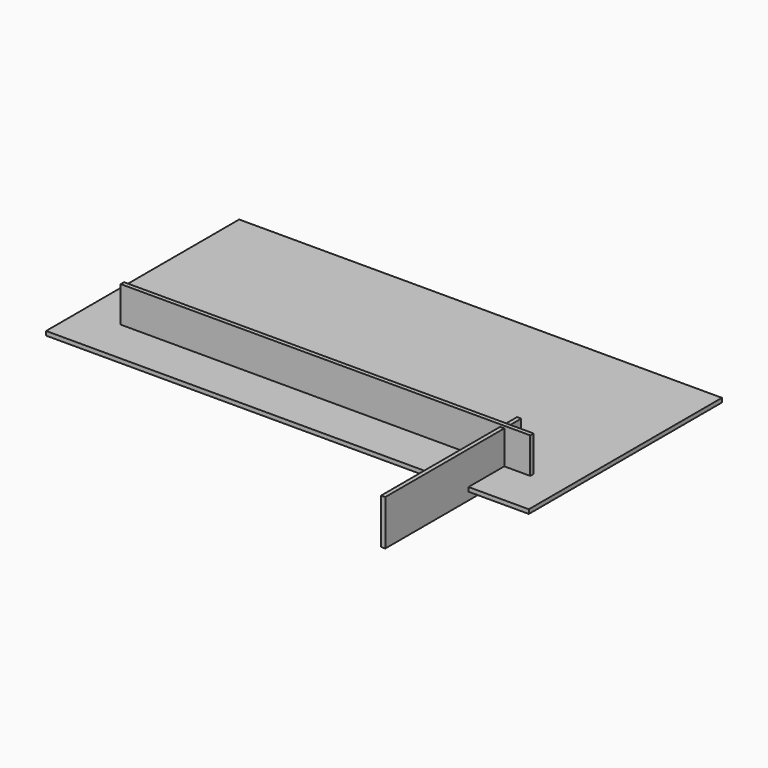
from build123d import *

# Parameters (mm, degrees)
F0_W     = 2070
F0_H     = 880
F1_DEPTH = 21
F2_W     = 2070
F2_H     = 229
F3_DEPTH = 21
F4_W     = 859
F4_H     = 229
F5_DEPTH = 21
F6_W     = 2440
F6_H     = 1220
F7_DEPTH = 21


with BuildPart() as f1:
    # F0 (on Top) → F1 (new body)
    with BuildSketch(Plane.XY):
        with Locations((-905.03024, 397.812499)):
            Rectangle(F0_W, F0_H)
    extrude(amount=F1_DEPTH)


with BuildPart() as f3:
    # F2 (on Front) → F3 (new body)
    with BuildSketch(Plane.XZ):
        with Locations((-882.71169, 87.010081)):
            Rectangle(F2_W, F2_H)
    extrude(amount=F3_DEPTH)


with BuildPart() as f5:
    # F4 (on Right) → F5 (new body)
    with BuildSketch(Plane.YZ):
        with Locations((-343.252011, 75.397177)):
            Rectangle(F4_W, F4_H)
    extrude(amount=F5_DEPTH)


with BuildPart() as f7:
    # F6 (on Top) → F7 (new body)
    with BuildSketch(Plane.XY):
        with Locations((-894.138278, 363.048703)):
            Rectangle(F6_W, F6_H)
    extrude(amount=F7_DEPTH)


solid = Compound([f1.part, f3.part, f5.part, f7.part])
